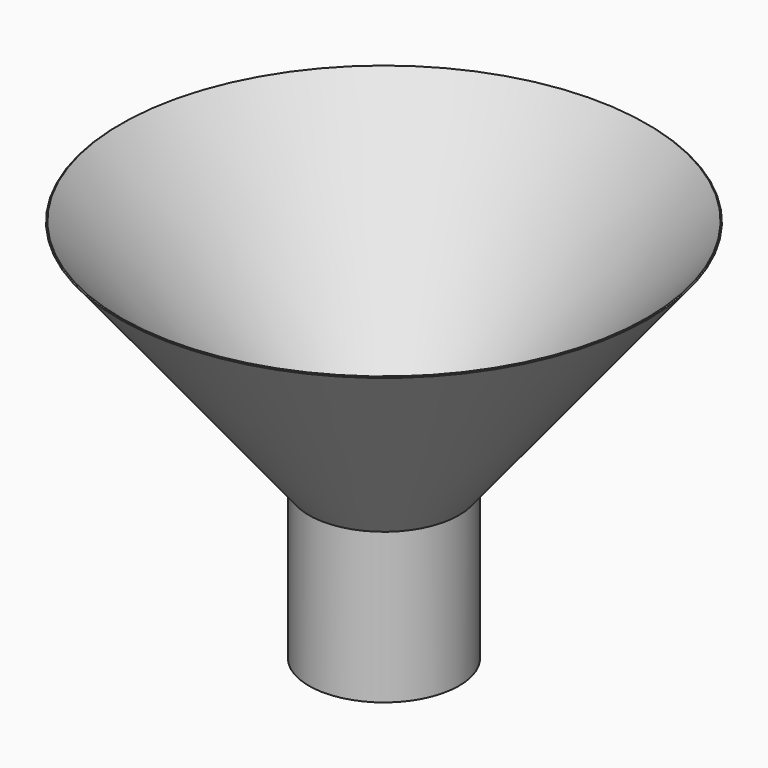
from build123d import *

# Parameters (mm, degrees)
F2_R     = 10.343236
F3_DEPTH = 30.226


with BuildPart() as f1:
    # F0 (on Front) → F1 (revolve)
    with BuildSketch(Plane.XZ):
        Polygon((0, 25.4), (0, 0), (12.7, 0), (12.7, 25.4), (44.623585, 64.916133), (44.442896, 65.057762), (10.352178, 25.4), align=None)
    revolve(axis=Axis((0, 0, 12.7), (0, 0, 1)))

    # F2 (on face) → F3 (cut)
    with BuildSketch(Plane.XY.offset(25.4)):
        Circle(F2_R)
    extrude(amount=-F3_DEPTH, mode=Mode.SUBTRACT)


solid = f1.part
